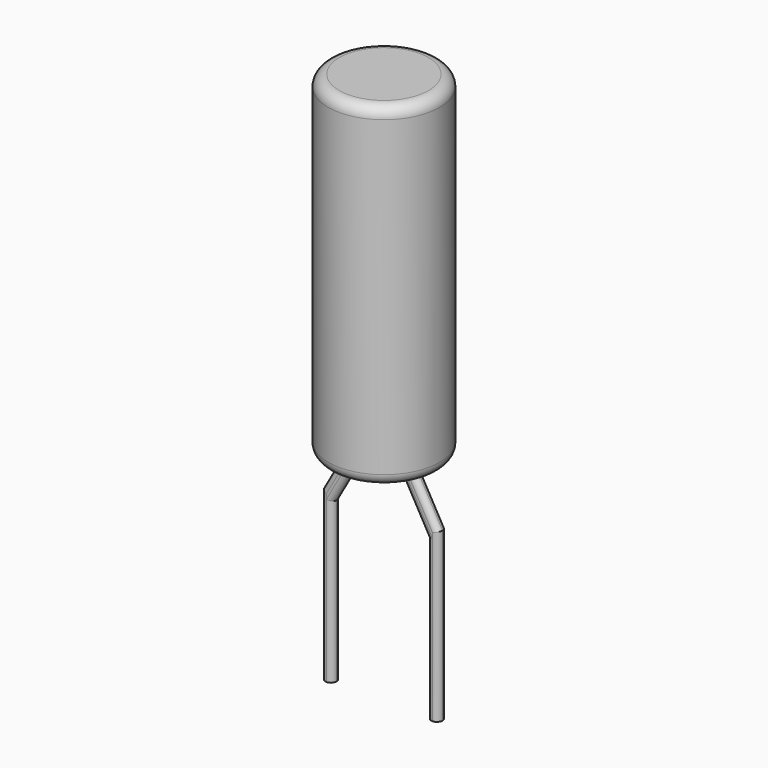
from build123d import *

# Parameters (mm, degrees)
PAD_DEPTH = 0.1
FILLET_R  = 0.0998


with BuildPart() as revolution:
    # Sketch002 → Revolution (revolve)
    with BuildSketch(Plane.XZ):
        with BuildLine():
            Line((0.15, 6.96), (0.95, 6.96))
            Line((0.95, 0.96), (0.95, 6.96))
            Line((0.95, 0.96), (0.15, 0.96))
            ThreePointArc((-0.05, 1.16), (0.008579, 1.018579), (0.15, 0.96))
            Line((-0.05, 1.16), (-0.05, 6.76))
            ThreePointArc((0.15, 6.96), (0.008579, 6.901421), (-0.05, 6.76))
        make_face()
    revolve(axis=Axis((0.95, 0, 6.96), (0, 0, -1)))


with BuildPart() as fillet_body:
    # Sketch → Pad (new body, symmetric)
    with BuildSketch(Plane.XZ):
        Polygon((0.1, -2.9), (0.1, -0.041421), (0.55, 0.758579), (0.55, 1), (0.35, 1), (0.35, 0.9), (-0.1, 0.1), (-0.1, -2.9), align=None)
        Polygon((1.35, 1), (1.55, 1), (1.55, 0.9), (2, 0.1), (2, -2.9), (1.8, -2.9), (1.8, -0.041421), (1.35, 0.758579), align=None)
    extrude(amount=PAD_DEPTH, both=True)

    # Fillet
    fillet_edges = [fillet_body.edges().sort_by_distance(p)[0] for p in [
        (0.125, -0.1, 0.5),
        (0.35, -0.1, 0.95),
        (0.55, -0.1, 0.879289),
        (0.325, -0.1, 0.358579),
        (0.1, -0.1, -1.470711),
        (-0.1, -0.1, -1.4),
        (0.1, 0.1, -1.470711),
        (0.325, 0.1, 0.358579),
        (0.55, 0.1, 0.879289),
        (1.575, -0.1, 0.358579),
        (1.35, -0.1, 0.879289),
        (1.8, -0.1, -1.470711),
        (2, -0.1, -1.4),
        (1.775, -0.1, 0.5),
        (1.55, -0.1, 0.95),
        (1.55, 0.1, 0.95),
        (1.775, 0.1, 0.5),
        (2, 0.1, -1.4),
        (1.8, 0.1, -1.470711),
        (1.575, 0.1, 0.358579),
        (1.35, 0.1, 0.879289),
        (0.35, 0.1, 0.95),
        (-0.1, 0.1, -1.4),
        (0.125, 0.1, 0.5),
    ]]
    fillet(fillet_edges, radius=FILLET_R)


solid = Compound([revolution.part, fillet_body.part])
